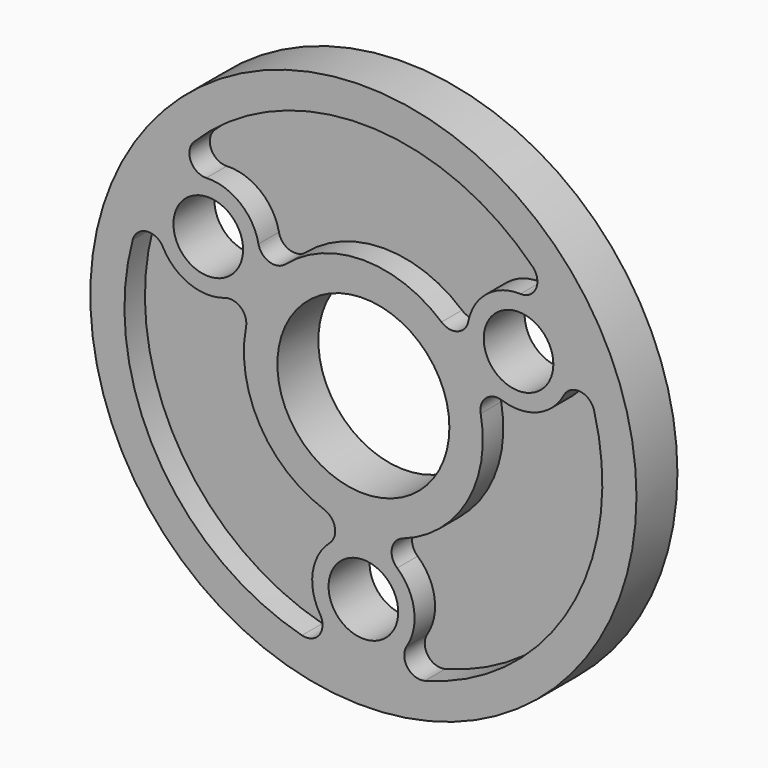
from build123d import *

# Parameters (mm, degrees)
F0_R     = 25.4
F0_R_2   = 3.2385
F0_R_3   = 8
F1_DEPTH = 4.7625
F3_DEPTH = 2.38125


with BuildPart() as f1:
    # F0 (on Front) → F1 (new body)
    with BuildSketch(Plane.XZ):
        Circle(F0_R)
        with Locations((0, -16.6624)):
            Circle(F0_R_2, mode=Mode.SUBTRACT)
        Circle(F0_R_3, mode=Mode.SUBTRACT)
        with Locations((-14.430062, 8.3312)):
            Circle(F0_R_2, mode=Mode.SUBTRACT)
        with Locations((14.430062, 8.3312)):
            Circle(F0_R_2, mode=Mode.SUBTRACT)
    extrude(amount=F1_DEPTH)

    # F2 (on face) → F3 (cut)
    with BuildSketch(Plane.XZ.offset(4.7625)):
        with BuildLine():
            ThreePointArc((-3.646079, -10.497322), (-9.623707, -5.55625), (-10.913987, 2.091064))
            ThreePointArc((-10.913987, 2.091064), (-11.409826, 3.527057), (-12.900289, 3.821078))
            ThreePointArc((-12.900289, 3.821078), (-16.190201, 3.905896), (-18.639619, 6.103863))
            ThreePointArc((-18.639619, 6.103863), (-20.156405, 6.905634), (-21.458089, 5.788007))
            ThreePointArc((-21.458089, 5.788007), (-19.247415, -11.1125), (-5.716484, -21.477254))
            ThreePointArc((-5.716484, -21.477254), (-4.097748, -20.908775), (-4.033709, -19.194315))
            ThreePointArc((-4.033709, -19.194315), (-4.712495, -15.974073), (-3.140994, -13.082517))
            ThreePointArc((-3.140994, -13.082517), (-2.650392, -11.644727), (-3.646079, -10.497322))
        make_face()
        with BuildLine():
            ThreePointArc((-7.267908, 8.406258), (0, 11.1125), (7.267908, 8.406258))
            ThreePointArc((7.267908, 8.406258), (8.759433, 8.11767), (9.759295, 9.261439))
            ThreePointArc((9.759295, 9.261439), (11.477705, 12.068177), (14.60591, 13.090452))
            ThreePointArc((14.60591, 13.090452), (16.058657, 14.003141), (15.741606, 15.689247))
            ThreePointArc((15.741606, 15.689247), (0, 22.225), (-15.741606, 15.689247))
            ThreePointArc((-15.741606, 15.689247), (-16.058657, 14.003141), (-14.60591, 13.090452))
            ThreePointArc((-14.60591, 13.090452), (-11.477705, 12.068177), (-9.759295, 9.261439))
            ThreePointArc((-9.759295, 9.261439), (-8.759433, 8.11767), (-7.267908, 8.406258))
        make_face()
        with BuildLine():
            ThreePointArc((10.913987, 2.091064), (9.623707, -5.55625), (3.646079, -10.497322))
            ThreePointArc((3.646079, -10.497322), (2.650392, -11.644727), (3.140994, -13.082517))
            ThreePointArc((3.140994, -13.082517), (4.712495, -15.974073), (4.033709, -19.194315))
            ThreePointArc((4.033709, -19.194315), (4.097748, -20.908775), (5.716484, -21.477254))
            ThreePointArc((5.716484, -21.477254), (19.247415, -11.1125), (21.458089, 5.788007))
            ThreePointArc((21.458089, 5.788007), (20.156405, 6.905634), (18.639619, 6.103863))
            ThreePointArc((18.639619, 6.103863), (16.190201, 3.905896), (12.900289, 3.821078))
            ThreePointArc((12.900289, 3.821078), (11.409826, 3.527057), (10.913987, 2.091064))
        make_face()
    extrude(amount=-F3_DEPTH, mode=Mode.SUBTRACT)


solid = f1.part
